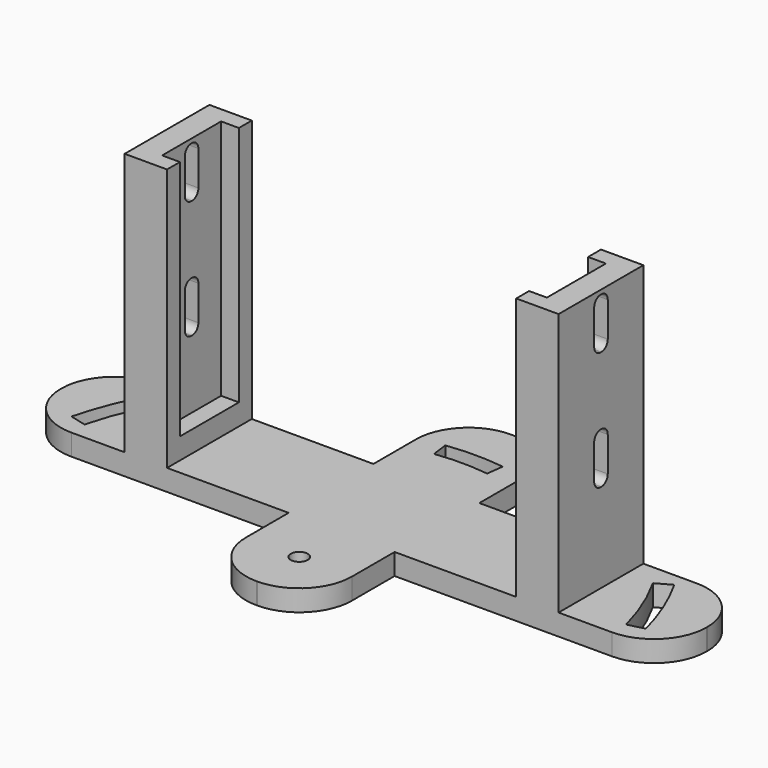
from build123d import *

# Parameters (mm, degrees)
BOX011_W                    = 6
BOX011_H                    = 4
BOX011_DEPTH                = 12
FILLET009_R                 = 1.9
BOX013_W                    = 4.2
BOX013_H                    = 17.4
BOX013_DEPTH                = 67
BOX010_W                    = 6
BOX010_H                    = 4
BOX010_DEPTH                = 12
FILLET008_R                 = 1.9
BOX012_W                    = 10
BOX012_H                    = 25
BOX012_DEPTH                = 67
BOX007_W                    = 4.2
BOX007_H                    = 17.4
BOX007_DEPTH                = 67
BOX008_W                    = 6
BOX008_H                    = 4
BOX008_DEPTH                = 12
FILLET006_R                 = 1.9
BOX009_W                    = 6
BOX009_H                    = 4
BOX009_DEPTH                = 12
FILLET007_R                 = 1.9
BOX006_W                    = 10
BOX006_H                    = 25
BOX006_DEPTH                = 67
CYLINDER002_W               = 66
CYLINDER002_H               = 5
CYLINDER002_ANGLE           = 15
CYLINDER002_PLACEMENT_ANGLE = 14.5
CYLINDER001_W               = 70
CYLINDER001_H               = 5
CYLINDER001_ANGLE           = 15
CYLINDER001_PLACEMENT_ANGLE = 14.5
CYLINDER004_W               = 48
CYLINDER004_H               = 5
CYLINDER004_ANGLE           = 15
CYLINDER004_PLACEMENT_ANGLE = 82.5
CYLINDER003_W               = 52
CYLINDER003_H               = 5
CYLINDER003_ANGLE           = 15
CYLINDER003_PLACEMENT_ANGLE = 82.5
CYLINDER007_R               = 2
CYLINDER007_DEPTH           = 5
CYLINDER006_W               = 66
CYLINDER006_H               = 5
CYLINDER006_ANGLE           = 15
CYLINDER006_PLACEMENT_ANGLE = 150.5
CYLINDER005_W               = 70
CYLINDER005_H               = 5
CYLINDER005_ANGLE           = 15
CYLINDER005_PLACEMENT_ANGLE = 150.5
BOX015_W                    = 25
BOX015_H                    = 75
BOX015_DEPTH                = 5
FILLET011_R                 = 12.4
BOX014_W                    = 152.4
BOX014_H                    = 25
BOX014_DEPTH                = 5
FILLET010_R                 = 12.4


with BuildPart() as fillet009:
    # Box011 → Box011 (new body)
    with BuildSketch(Plane(origin=(-45, 23, 26), x_dir=(1, 0, 0), z_dir=(0, 0, 1))):
        with Locations((3, 2)):
            Rectangle(BOX011_W, BOX011_H)
    extrude(amount=BOX011_DEPTH)

    # Fillet009
    fillet009_edges = [fillet009.edges().sort_by_distance(p)[0] for p in [
        (-42, 23, 26),
        (-42, 23, 38),
        (-42, 27, 26),
        (-42, 27, 38),
    ]]
    fillet(fillet009_edges, radius=FILLET009_R)


with BuildPart() as obj1:
    # Box013 → Box013 (new body)
    with BuildSketch(Plane(origin=(-39.2, 16.3, 10), x_dir=(1, 0, 0), z_dir=(0, 0, 1))):
        with Locations((2.1, 8.7)):
            Rectangle(BOX013_W, BOX013_H)
    extrude(amount=BOX013_DEPTH)


with BuildPart() as fusion003:
    # Box010 → Box010 (new body)
    with BuildSketch(Plane(origin=(-45, 23, 54), x_dir=(1, 0, 0), z_dir=(0, 0, 1))):
        with Locations((3, 2)):
            Rectangle(BOX010_W, BOX010_H)
    extrude(amount=BOX010_DEPTH)

    # Fillet008
    fillet008_edges = [fusion003.edges().sort_by_distance(p)[0] for p in [
        (-42, 23, 54),
        (-42, 23, 66),
        (-42, 27, 54),
        (-42, 27, 66),
    ]]
    fillet(fillet008_edges, radius=FILLET008_R)

    # Fusion003: union Fillet009, obj1
    add(fillet009.part)
    add(obj1.part)


with BuildPart() as stuetze002:
    # Box012 → Box012 (new body)
    with BuildSketch(Plane(origin=(-45, 12.5, 0), x_dir=(1, 0, 0), z_dir=(0, 0, 1))):
        with Locations((5, 12.5)):
            Rectangle(BOX012_W, BOX012_H)
    extrude(amount=BOX012_DEPTH)

    # Cut006: cut Fusion003
    add(fusion003.part, mode=Mode.SUBTRACT)


with BuildPart() as stuetze002_1:
    # Cut006 placement: moved
    add(stuetze002.part.moved(Location((-6.2, 0, 0))))


with BuildPart() as obj2:
    # Box007 → Box007 (new body)
    with BuildSketch(Plane(origin=(35, 16.3, 10), x_dir=(1, 0, 0), z_dir=(0, 0, 1))):
        with Locations((2.1, 8.7)):
            Rectangle(BOX007_W, BOX007_H)
    extrude(amount=BOX007_DEPTH)


with BuildPart() as fillet006:
    # Box008 → Box008 (new body)
    with BuildSketch(Plane(origin=(39, 23, 54), x_dir=(1, 0, 0), z_dir=(0, 0, 1))):
        with Locations((3, 2)):
            Rectangle(BOX008_W, BOX008_H)
    extrude(amount=BOX008_DEPTH)

    # Fillet006
    fillet006_edges = [fillet006.edges().sort_by_distance(p)[0] for p in [
        (42, 23, 54),
        (42, 23, 66),
        (42, 27, 54),
        (42, 27, 66),
    ]]
    fillet(fillet006_edges, radius=FILLET006_R)


with BuildPart() as fusion002:
    # Box009 → Box009 (new body)
    with BuildSketch(Plane(origin=(39, 23, 26), x_dir=(1, 0, 0), z_dir=(0, 0, 1))):
        with Locations((3, 2)):
            Rectangle(BOX009_W, BOX009_H)
    extrude(amount=BOX009_DEPTH)

    # Fillet007
    fillet007_edges = [fusion002.edges().sort_by_distance(p)[0] for p in [
        (42, 23, 26),
        (42, 23, 38),
        (42, 27, 26),
        (42, 27, 38),
    ]]
    fillet(fillet007_edges, radius=FILLET007_R)

    # Fusion002: union obj2, Fillet006
    add(obj2.part)
    add(fillet006.part)


with BuildPart() as stuetze001:
    # Box006 → Box006 (new body)
    with BuildSketch(Plane(origin=(35, 12.5, 0), x_dir=(1, 0, 0), z_dir=(0, 0, 1))):
        with Locations((5, 12.5)):
            Rectangle(BOX006_W, BOX006_H)
    extrude(amount=BOX006_DEPTH)

    # Cut005: cut Fusion002
    add(fusion002.part, mode=Mode.SUBTRACT)


with BuildPart() as stuetze001_1:
    # Cut005 placement: moved
    add(stuetze001.part.moved(Location((6.2, 0, 0))))


with BuildPart() as zylinder002:
    # Cylinder002 → Cylinder002 (revolve)
    with BuildSketch(Plane.XZ):
        with Locations((33, 2.5)):
            Rectangle(CYLINDER002_W, CYLINDER002_H)
    revolve(axis=Axis((0, 0, 0), (0, 0, 1)), revolution_arc=CYLINDER002_ANGLE)


with BuildPart() as zylinder002_1:
    # Cylinder002 placement: moved
    add(zylinder002.part.rotate(Axis((0, 0, 0), (0, 0, 1)), CYLINDER002_PLACEMENT_ANGLE))


with BuildPart() as obj3:
    # Cylinder001 → Cylinder001 (revolve)
    with BuildSketch(Plane.XZ):
        with Locations((35, 2.5)):
            Rectangle(CYLINDER001_W, CYLINDER001_H)
    revolve(axis=Axis((0, 0, 0), (0, 0, 1)), revolution_arc=CYLINDER001_ANGLE)


with BuildPart() as obj3_1:
    # Cylinder001 placement: moved
    add(obj3.part.rotate(Axis((0, 0, 0), (0, 0, 1)), CYLINDER001_PLACEMENT_ANGLE))

    # Cut: cut Zylinder002
    add(zylinder002_1.part, mode=Mode.SUBTRACT)


with BuildPart() as zylinder004:
    # Cylinder004 → Cylinder004 (revolve)
    with BuildSketch(Plane.XZ):
        with Locations((24, 2.5)):
            Rectangle(CYLINDER004_W, CYLINDER004_H)
    revolve(axis=Axis((0, 0, 0), (0, 0, 1)), revolution_arc=CYLINDER004_ANGLE)


with BuildPart() as zylinder004_1:
    # Cylinder004 placement: moved
    add(zylinder004.part.rotate(Axis((0, 0, 0), (0, 0, 1)), CYLINDER004_PLACEMENT_ANGLE))


with BuildPart() as obj4:
    # Cylinder003 → Cylinder003 (revolve)
    with BuildSketch(Plane.XZ):
        with Locations((26, 2.5)):
            Rectangle(CYLINDER003_W, CYLINDER003_H)
    revolve(axis=Axis((0, 0, 0), (0, 0, 1)), revolution_arc=CYLINDER003_ANGLE)


with BuildPart() as obj4_1:
    # Cylinder003 placement: moved
    add(obj4.part.rotate(Axis((0, 0, 0), (0, 0, 1)), CYLINDER003_PLACEMENT_ANGLE))

    # Cut001: cut Zylinder004
    add(zylinder004_1.part, mode=Mode.SUBTRACT)


with BuildPart() as obj5:
    # Cylinder007 → Cylinder007 (new body)
    with BuildSketch(Plane.XY):
        Circle(CYLINDER007_R)
    extrude(amount=CYLINDER007_DEPTH)


with BuildPart() as zylinder006:
    # Cylinder006 → Cylinder006 (revolve)
    with BuildSketch(Plane.XZ):
        with Locations((33, 2.5)):
            Rectangle(CYLINDER006_W, CYLINDER006_H)
    revolve(axis=Axis((0, 0, 0), (0, 0, 1)), revolution_arc=CYLINDER006_ANGLE)


with BuildPart() as zylinder006_1:
    # Cylinder006 placement: moved
    add(zylinder006.part.rotate(Axis((0, 0, 0), (0, 0, 1)), CYLINDER006_PLACEMENT_ANGLE))


with BuildPart() as obj6:
    # Cylinder005 → Cylinder005 (revolve)
    with BuildSketch(Plane.XZ):
        with Locations((35, 2.5)):
            Rectangle(CYLINDER005_W, CYLINDER005_H)
    revolve(axis=Axis((0, 0, 0), (0, 0, 1)), revolution_arc=CYLINDER005_ANGLE)


with BuildPart() as obj6_1:
    # Cylinder005 placement: moved
    add(obj6.part.rotate(Axis((0, 0, 0), (0, 0, 1)), CYLINDER005_PLACEMENT_ANGLE))

    # Cut002: cut Zylinder006
    add(zylinder006_1.part, mode=Mode.SUBTRACT)

    # Fusion004: union obj3, obj4, obj5
    add(obj3_1.part)
    add(obj4_1.part)
    add(obj5.part)


with BuildPart() as fillet002:
    # Box015 → Box015 (new body)
    with BuildSketch(Plane(origin=(-12.5, -12.5, 0), x_dir=(1, 0, 0), z_dir=(0, 0, 1))):
        with Locations((12.5, 37.5)):
            Rectangle(BOX015_W, BOX015_H)
    extrude(amount=BOX015_DEPTH)

    # Fillet011
    fillet011_edges = [fillet002.edges().sort_by_distance(p)[0] for p in [
        (-12.5, -12.5, 2.5),
        (-12.5, 62.5, 2.5),
        (12.5, -12.5, 2.5),
        (12.5, 62.5, 2.5),
    ]]
    fillet(fillet011_edges, radius=FILLET011_R)


with BuildPart() as fusion:
    # Box014 → Box014 (new body)
    with BuildSketch(Plane(origin=(-76.2, 12.5, 0), x_dir=(1, 0, 0), z_dir=(0, 0, 1))):
        with Locations((76.2, 12.5)):
            Rectangle(BOX014_W, BOX014_H)
    extrude(amount=BOX014_DEPTH)

    # Fillet010
    fillet010_edges = [fusion.edges().sort_by_distance(p)[0] for p in [
        (-76.2, 12.5, 2.5),
        (-76.2, 37.5, 2.5),
        (76.2, 12.5, 2.5),
        (76.2, 37.5, 2.5),
    ]]
    fillet(fillet010_edges, radius=FILLET010_R)

    # Fusion005: union Fillet002
    add(fillet002.part)

    # Cut007: cut obj6
    add(obj6_1.part, mode=Mode.SUBTRACT)

    # Fusion: union Stuetze002, Stuetze001
    add(stuetze002_1.part)
    add(stuetze001_1.part)


solid = fusion.part
